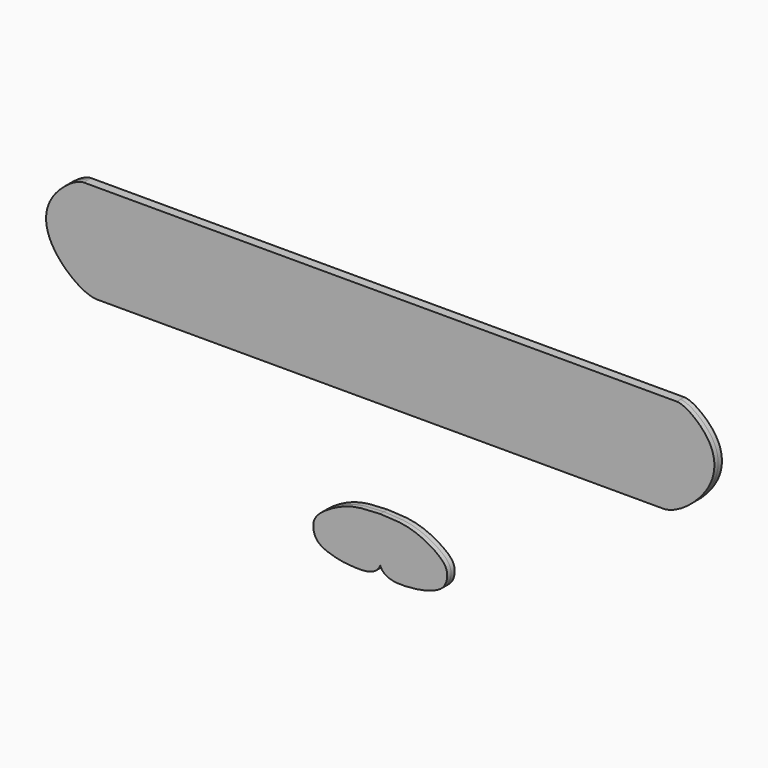
from build123d import *

# Parameters (mm, degrees)
F1_DEPTH = 1.5875


with BuildPart() as f1:
    # F0 (on Front) → F1 (new body, symmetric)
    with BuildSketch(Plane.XZ):
        with BuildLine():
            Line((-95.4491645098, 15.5498979571), (0, 15.5498979571))
            Line((0, 15.5498979571), (95.4491645098, 15.5498979571))
            add(Edge.make_bspline(
                [(100.0751927495, 48.8619215745), (102.7090887615, 48.8619215745), (113.3303219, 41.51151007), (113.6572843251, 26.0564992665), (100.3678366542, 15.5498979571), (95.4491645098, 15.5498979571)],
                knots=[0, 0, 0, 0, 0.3078920629, 0.628836659, 1, 1, 1, 1], degree=3))
            Line((100.0751927495, 48.8619215745), (0, 48.8619215745))
            Line((0, 48.8619215745), (-100.0751927495, 48.8619215745))
            add(Edge.make_bspline(
                [(-100.0751927495, 48.8619215745), (-102.7090887615, 48.8619215745), (-113.3303219, 41.51151007), (-113.6572843251, 26.0564992665), (-100.3678366542, 15.5498979571), (-95.4491645098, 15.5498979571)],
                knots=[0, 0, 0, 0, 0.3078920629, 0.628836659, 1, 1, 1, 1], degree=3))
        make_face()
    extrude(amount=F1_DEPTH, both=True)


with BuildPart() as f1b:
    # F0 (on Front) → F1, piece 2 (new body, symmetric)
    with BuildSketch(Plane.XZ):
        with BuildLine():
            add(Edge.make_bspline(
                [(0, -17.0887019485), (5.7795476168, -17.2010064125), (10.8758950079, -17.9249138286), (18.1463837268, -21.5184543585), (22.7572152407, -25.4510018388), (22.6678741497, -29.7933182332), (20.7879752369, -33.0823305942), (15.2574218762, -35.0022667544), (10.3430421268, -35.8624297698), (1.2167258005, -36.0765912032), (0, -32.3287019485)],
                knots=[0, 0, 0, 0, 0.1677043693, 0.302014212, 0.4195162375, 0.5157620853, 0.6082384885, 0.7217588447, 0.8414018211, 1, 1, 1, 1], degree=3))
            add(Edge.make_bspline(
                [(0, -17.0887019485), (-5.7795476168, -17.2010064125), (-10.8758950079, -17.9249138286), (-18.1463837268, -21.5184543585), (-22.7572152407, -25.4510018388), (-22.6678741497, -29.7933182332), (-20.7879752369, -33.0823305942), (-15.2574218762, -35.0022667544), (-10.3430421268, -35.8624297698), (-1.2167258005, -36.0765912032), (0, -32.3287019485)],
                knots=[0, 0, 0, 0, 0.1677043693, 0.302014212, 0.4195162375, 0.5157620853, 0.6082384885, 0.7217588447, 0.8414018211, 1, 1, 1, 1], degree=3))
        make_face()
    extrude(amount=F1_DEPTH, both=True)


solid = Compound([f1.part, f1b.part])
